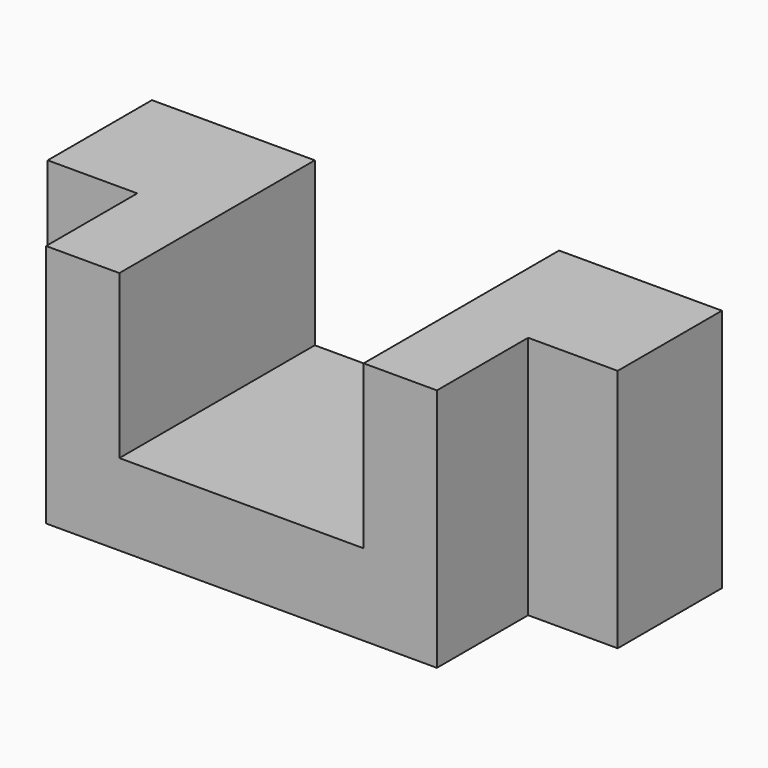
from build123d import *

# Parameters (mm, degrees)
F0_W     = 10
F0_H     = 30
F0_W_2   = 12
F1_DEPTH = 30
F2_W     = 11
F2_H     = 14
F3_DEPTH = 30


with BuildPart() as f1:
    # F0 (on Front) → F1 (new body)
    with BuildSketch(Plane.XZ):
        with Locations((-30, 15)):
            Rectangle(F0_W, F0_H)
        Polygon((-25, 30), (-25, 0), (23, 0), (23, 30), (15, 30), (15, 10), (-15, 10), (-15, 30), align=None)
        with Locations((29, 15)):
            Rectangle(F0_W_2, F0_H)
    extrude(amount=F1_DEPTH)

    # F2 (on Top) → F3 (cut)
    with BuildSketch(Plane.XY):
        with Locations((29.5, -23)):
            Rectangle(F2_W, F2_H)
        with Locations((-29.5, -23)):
            Rectangle(F2_W, F2_H)
    extrude(amount=F3_DEPTH, mode=Mode.SUBTRACT)


solid = f1.part
